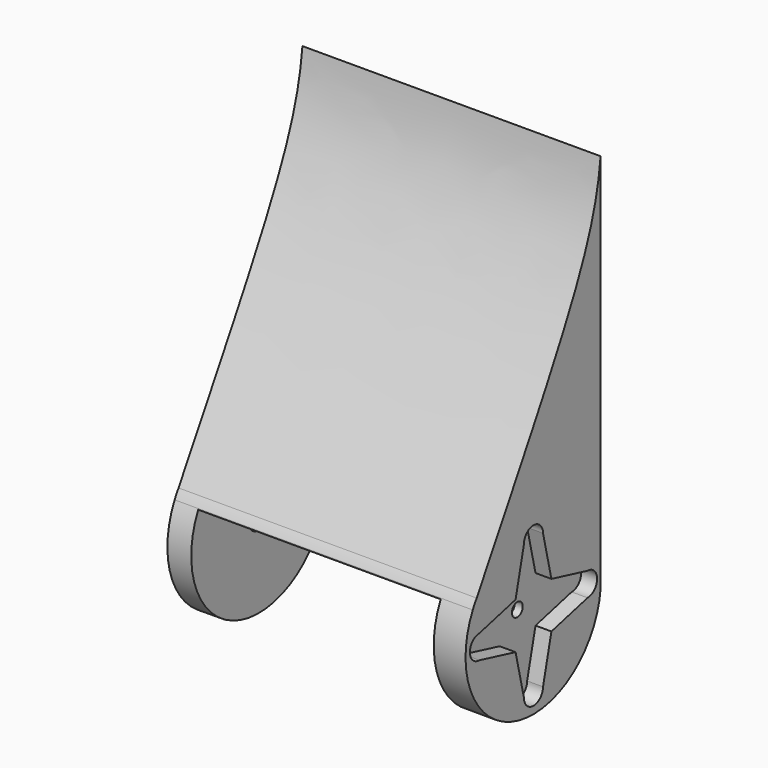
from build123d import *

# Parameters (mm, degrees)
F1_DEPTH  = 75
F3_DEPTH  = 4
F5_W      = 61.9195103645
F5_H      = 37.6517623663
F6_DEPTH  = 17
F7_DEPTH  = 44
F9_D      = 7
F9_DEPTH  = 15
F9_TIP    = 2.1030121666
F10_R     = 3.3275648112
F10_R_2   = 1.7
F11_DEPTH = 2
F12_DEPTH = 25.4


with BuildPart() as f1:
    # F0 (on Right) → F1 (new body)
    with BuildSketch(Plane.YZ):
        with BuildLine():
            add(Edge.make_bspline(
                [(-17.7810950981, -27.3124240728), (-18.19174778, -28.0218574236), (-18.6022967338, -28.732065323), (-19.0125334596, -29.4428684699)],
                knots=[0.9798659686, 0.9798659686, 0.9798659686, 0.9798659686, 1, 1, 1, 1], degree=3))
            ThreePointArc((-17.7810950981, -27.3124240728), (-18.4276280065, -28.3598353366), (-19.0125334596, -29.4428684699))
        make_face()
        with BuildLine():
            add(Edge.make_bspline(
                [(21.1806873749, 54.7040760765), (20.2999017837, 46.0225748891), (14.3499977593, 26.8402827287), (-5.7827936538, -6.5844571681), (-17.7810950981, -27.3124240728)],
                knots=[0, 0, 0, 0, 0.3915971259, 0.9798659686, 0.9798659686, 0.9798659686, 0.9798659686], degree=3))
            add(Edge.make_bspline(
                [(-17.7810950981, -27.3124240728), (-18.19174778, -28.0218574236), (-18.6022967338, -28.732065323), (-19.0125334596, -29.4428684699)],
                knots=[0.9798659686, 0.9798659686, 0.9798659686, 0.9798659686, 1, 1, 1, 1], degree=3))
            ThreePointArc((-19.0125334596, -29.4428684699), (-5.934227846, -59.4519469715), (21.1806873749, -41.1116022965))
            Line((21.1806873749, -41.1116022965), (21.1806873749, 54.7040760765))
        make_face()
    extrude(amount=F1_DEPTH)

    # F2 (on face) → F3 (cut)
    with BuildSketch(Plane.YZ.offset(75)):
        with BuildLine():
            Line((5.715811355, -44.2500978365), (17.0802870953, -41.4346371949))
            ThreePointArc((17.0802870953, -41.4346371949), (20.0802870953, -38.4346371949), (17.0802870953, -35.4346371949))
            Line((17.0802870953, -35.4346371949), (5.715811355, -32.6191765533))
            Line((5.715811355, -32.6191765533), (3.0802870953, -21.4346371949))
            ThreePointArc((3.0802870953, -21.4346371949), (0.0802870953, -18.4346371949), (-2.9197129047, -21.4346371949))
            Line((-2.9197129047, -21.4346371949), (-5.5552371643, -32.6191765533))
            Line((-5.5552371643, -32.6191765533), (-16.9197129047, -35.4346371949))
            ThreePointArc((-16.9197129047, -35.4346371949), (-19.9197129047, -38.4346371949), (-16.9197129047, -41.4346371949))
            Line((-16.9197129047, -41.4346371949), (-5.5552371643, -44.2500978365))
            Line((-5.5552371643, -44.2500978365), (-2.9197129047, -55.4346371949))
            ThreePointArc((-2.9197129047, -55.4346371949), (0.0802870953, -58.4346371949), (3.0802870953, -55.4346371949))
            Line((3.0802870953, -55.4346371949), (5.715811355, -44.2500978365))
        make_face()
    extrude(amount=-F3_DEPTH, mode=Mode.SUBTRACT)

    # F5 (on offset) → F6 (cut)
    with BuildSketch(Plane.YZ.offset(50)):
        with Locations((0, -48.4619401395)):
            Rectangle(F5_W, F5_H)
    extrude(amount=F6_DEPTH, mode=Mode.SUBTRACT)

    # F5 (on offset) → F7 (cut)
    with BuildSketch(Plane.YZ.offset(50)):
        with Locations((0, -48.4619401395)):
            Rectangle(F5_W, F5_H)
    extrude(amount=-F7_DEPTH, mode=Mode.SUBTRACT)

    # F9
    with Locations(Plane(origin=(0, 0, 0), x_dir=(0, -1, 0), z_dir=(-1, 0, 0))):
        with Locations((-0.0107965604, -38.4317387827)):
            Hole(F9_D / 2, depth=F9_DEPTH)
            with Locations((0, 0, -(F9_DEPTH + F9_TIP / 2))):  # 118° drill point
                Cone(0, F9_D / 2, F9_TIP, mode=Mode.SUBTRACT)

    # F10 (on face) → F11 (cut)
    with BuildSketch(Plane(origin=(67, 0, 0), x_dir=(0, -1, 0), z_dir=(-1, 0, 0))):
        with Locations((0, -38.3945740759)):
            Circle(F10_R)
        with Locations((0, -38.3945740759)):
            Circle(F10_R_2, mode=Mode.SUBTRACT)
    extrude(amount=-F11_DEPTH, mode=Mode.SUBTRACT)

    # F10 (on face) → F12 (cut)
    with BuildSketch(Plane(origin=(67, 0, 0), x_dir=(0, -1, 0), z_dir=(-1, 0, 0))):
        with Locations((0, -38.3945740759)):
            Circle(F10_R_2)
    extrude(amount=-F12_DEPTH, mode=Mode.SUBTRACT)


solid = f1.part
